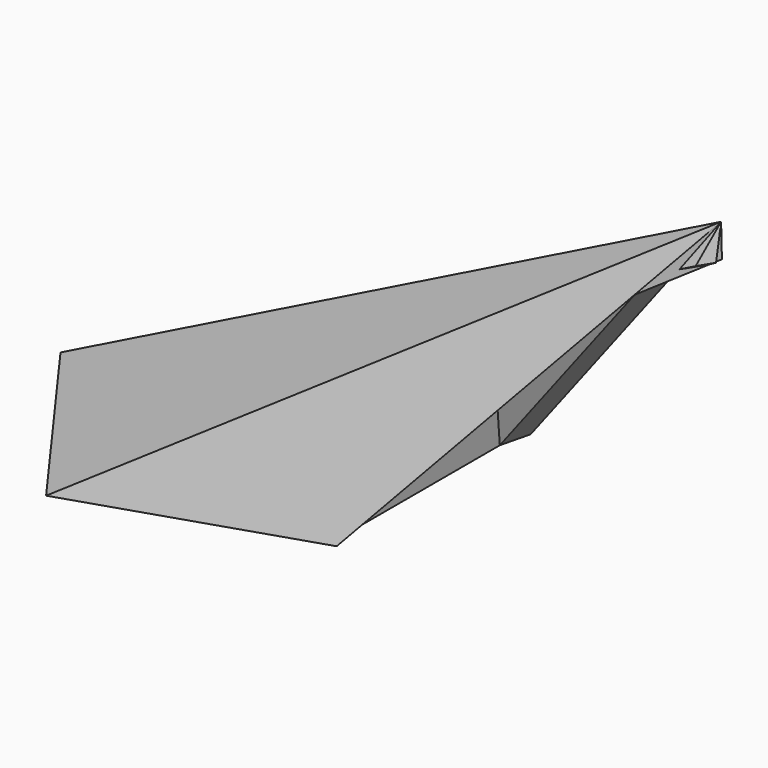
from build123d import *

# Parameters (mm, degrees)
F10_DEPTH = 2
F11_DEPTH = 2
F12_DEPTH = 2
F13_DEPTH = 2
F14_W     = 8.485019207
F14_H     = 5.5162683129
F15_DEPTH = 25.4
F16_W     = 22.2342889756
F16_H     = 4.6487008221
F17_DEPTH = 25.4
F18_W     = 7.9449899495
F18_H     = 7.2886322159
F19_DEPTH = 25.4
F20_W     = 5.9225577861
F20_H     = 11.3939000294
F21_DEPTH = 25.4
F22_DEPTH = 25.4
F24_DEPTH = 10
F25_W     = 57.7732250094
F25_H     = 30.5333668366
F26_DEPTH = 25.4
F27_W     = 39.3364997581
F27_H     = 21.5767812915
F28_DEPTH = 25.4


with BuildPart() as f10:
    # F9 (on 3pt) → F10 (new body)
    with BuildSketch(Plane(origin=(3.3858576339, 10.4205982991, 0.8801059814), x_dir=(-0.9513782964, 0.3069321376, 0.0259229655), z_dir=(0.308024897, 0.9480031547, 0.0800667316))):
        Polygon((7.9863190401, -1.0910055423), (-27.9953896476, 21.7198480533), (-8.0322433603, -0.6742785071), align=None)
    extrude(amount=-F10_DEPTH)

    # F7 (on 3pt) → F11 (join)
    with BuildSketch(Plane(origin=(-2.4612159584, 1.7881780643, 4.9288143129), x_dir=(0.9052277817, 0.144920932, 0.3994503557), z_dir=(-0.4249266563, 0.3087272871, 0.8509552274))):
        Polygon((35.8818855958, -7.4339114282), (-1.9342501918, 12.1864421859), (-12.3389909213, 0), align=None)
    extrude(amount=-F11_DEPTH)

    # F6 (on 3pt) → F12 (join)
    with BuildSketch(Plane(origin=(-2.4612159584, -1.7881780643, 4.9288143129), x_dir=(0.9052277817, -0.144920932, 0.3994503557), z_dir=(-0.4249266563, -0.3087272871, 0.8509552274))):
        Polygon((-1.9342501918, -12.1864421859), (35.8818855958, 7.4339114282), (-12.3389909213, 0), align=None)
    extrude(amount=-F12_DEPTH)

    # F5 (on face) → F13 (join)
    with BuildSketch(Plane(origin=(3.3858576339, -10.4205982991, 0.8801059814), x_dir=(0.9513782964, 0.3069321376, -0.0259229655), z_dir=(0.308024897, -0.9480031547, 0.0800667316))):
        Polygon((8.0322433603, -0.6742785071), (27.9953896476, 21.7198480533), (-7.9863190401, -1.0910055423), align=None)
    extrude(amount=-F13_DEPTH)

    # F14 (on face) → F15 (cut)
    with BuildSketch(Plane(origin=(3.3858576339, -10.4205982991, 0.8801059814), x_dir=(0.9513782964, 0.3069321376, -0.0259229655), z_dir=(0.308024897, -0.9480031547, 0.0800667316))):
        with Locations((25.7894098759, 19.5572990924)):
            Rectangle(F14_W, F14_H)
    extrude(amount=F15_DEPTH, mode=Mode.SUBTRACT)

    # F16 (on face) → F17 (cut)
    with BuildSketch(Plane(origin=(-2.4612159584, 1.7881780643, 4.9288143129), x_dir=(0.9052277817, 0.144920932, 0.3994503557), z_dir=(-0.4249266563, 0.3087272871, 0.8509552274))):
        with Locations((32.4524613097, -6.6612462979)):
            Rectangle(F16_W, F16_H)
    extrude(amount=F17_DEPTH, mode=Mode.SUBTRACT)

    # F18 (on face) → F19 (cut)
    with BuildSketch(Plane(origin=(-2.4612159584, -1.7881780643, 4.9288143129), x_dir=(0.9052277817, -0.144920932, 0.3994503557), z_dir=(-0.4249266563, -0.3087272871, 0.8509552274))):
        with Locations((35.5167929083, 5.7378442725)):
            Rectangle(F18_W, F18_H)
    extrude(amount=F19_DEPTH, mode=Mode.SUBTRACT)

    # F20 (on face) → F21 (cut)
    with BuildSketch(Plane(origin=(3.3858576339, 10.4205982991, 0.8801059814), x_dir=(-0.9513782964, 0.3069321376, 0.0259229655), z_dir=(0.308024897, 0.9480031547, 0.0800667316))):
        with Locations((-26.7476057634, 18.5779468156)):
            Rectangle(F20_W, F20_H)
    extrude(amount=F21_DEPTH, mode=Mode.SUBTRACT)

    # F0 (on Top) → F22 (cut)
    with BuildSketch(Plane.XY):
        Polygon((11.027559638, -8.0119910571), (11.027559638, 8.0119910571), (-4.2121529688, 12.963673848), (-13.6308133385, 0), (-4.2121529688, -12.963673848), align=None)
    extrude(amount=-F22_DEPTH, mode=Mode.SUBTRACT)

    # F23 (on face) → F24 (join)
    with BuildSketch(Plane(origin=(0, 0, 0), x_dir=(1, 0, 0), z_dir=(0, 0, -1))):
        Polygon((6.725183616, -3.5935375892), (1.1445587857, 0), (-5.7149456211, -4.4170478538), (-1.6444061956, -10.0196647256), (6.725183616, -7.3002201464), align=None)
        Polygon((-1.6444061956, 10.0196647256), (-5.7149456211, 4.4170478538), (1.1445587857, 0), (6.725183616, 3.5935375892), (6.725183616, 7.3002201464), align=None)
        Polygon((6.725183616, 3.5935375892), (1.1445587857, 0), (6.725183616, -3.5935375892), align=None)
        Polygon((6.725183616, 7.3002201464), (6.725183616, 3.5935375892), (10.5510387165, 6.0571244693), align=None)
        Polygon((6.725183616, 3.5935375892), (6.725183616, -3.5935375892), (10.5510387165, -6.0571244693), (10.5510387165, 6.0571244693), align=None)
        Polygon((10.5510387165, -6.0571244693), (6.725183616, -3.5935375892), (6.725183616, -7.3002201464), align=None)
    extrude(amount=-F24_DEPTH)

    # F25 (on face) → F26 (cut)
    with BuildSketch(Plane(origin=(-2.4612159584, 1.7881780643, 4.9288143129), x_dir=(0.9052277817, 0.144920932, 0.3994503557), z_dir=(-0.4249266563, 0.3087272871, 0.8509552274))):
        with Locations((7.6596103609, -0.1687561162)):
            Rectangle(F25_W, F25_H)
    extrude(amount=F26_DEPTH, mode=Mode.SUBTRACT)

    # F27 (on face) → F28 (cut)
    with BuildSketch(Plane(origin=(-2.4612159584, -1.7881780643, 4.9288143129), x_dir=(0.9052277817, -0.144920932, 0.3994503557), z_dir=(-0.4249266563, -0.3087272871, 0.8509552274))):
        with Locations((5.8207563125, -4.5227890369)):
            Rectangle(F27_W, F27_H)
    extrude(amount=F28_DEPTH, mode=Mode.SUBTRACT)


solid = f10.part
